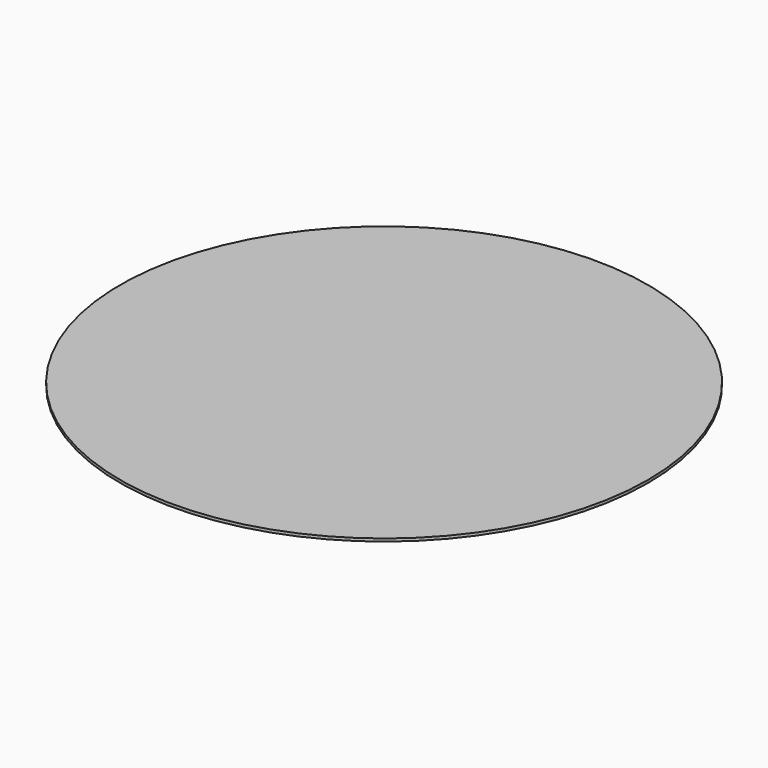
from build123d import *

# Parameters (mm, degrees)
SKETCH001_R = 304.8
PAD_DEPTH   = 3.175


with BuildPart() as part:
    # Sketch001 → Pad (new body)
    with BuildSketch(Plane.XY):
        Circle(SKETCH001_R)
    extrude(amount=PAD_DEPTH)


solid = part.part
